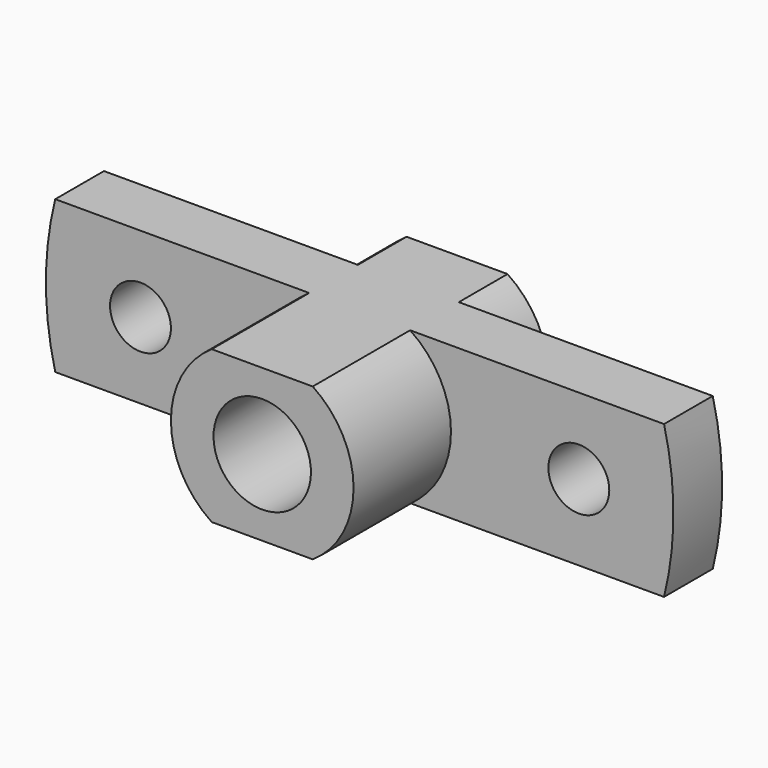
from build123d import *

# Parameters (mm, degrees)
F1_DEPTH      = 30
F1_DEPTH_BACK = 10
F0_R          = 5
F2_DEPTH      = 10


with BuildPart() as f1:
    # F0 (on Front) → F1 (new body, two sides)
    with BuildSketch(Plane.XZ) as f1_sk:
        with BuildLine():
            ThreePointArc((0, 8), (8, 0), (0, -8))
            Line((0, -8), (0, -12.5))
            Line((0, -12.5), (8.291562, -12.5))
            ThreePointArc((8.291562, -12.5), (15, 0), (8.291562, 12.5))
            Line((8.291562, 12.5), (0, 12.5))
            Line((0, 12.5), (0, 8))
        make_face()
    extrude(amount=F1_DEPTH)
    extrude(f1_sk.sketch, amount=-F1_DEPTH_BACK)

    # F0 (on Front) → F2 (join)
    with BuildSketch(Plane.XZ):
        with BuildLine():
            ThreePointArc((8.291562, 12.5), (15, 0), (8.291562, -12.5))
            Line((8.291562, -12.5), (50, -12.5))
            ThreePointArc((50, -12.5), (51.53882, 0), (50, 12.5))
            Line((50, 12.5), (8.291562, 12.5))
        make_face()
        with Locations((36, 0)):
            Circle(F0_R, mode=Mode.SUBTRACT)
    extrude(amount=F2_DEPTH)

    # F3: F1 across plane


with BuildPart() as f1_1:
    add(f1.part)
    add(f1.part.mirror(Plane.YZ))


solid = f1_1.part
